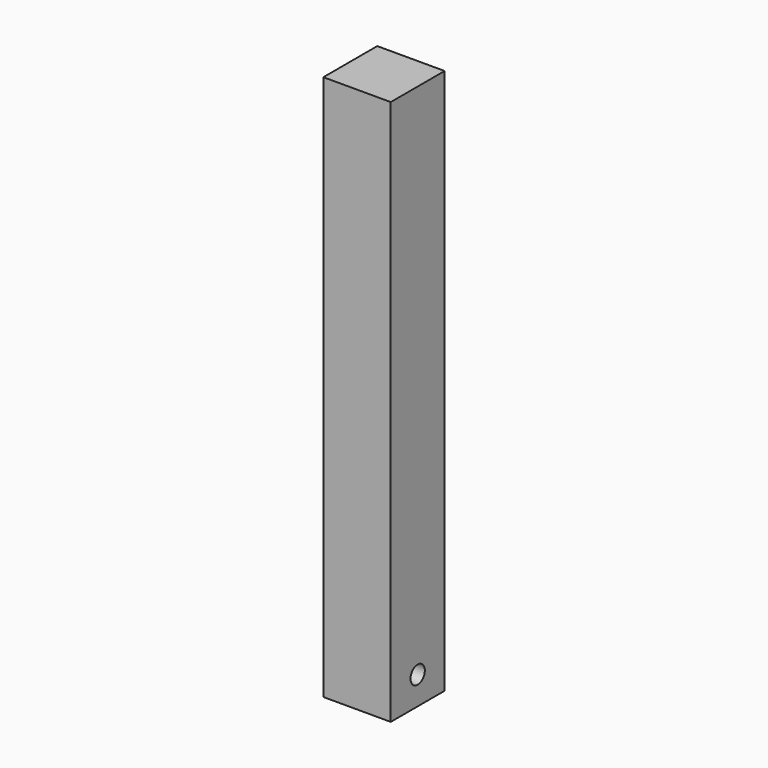
from build123d import *

# Parameters (mm, degrees)
F0_W     = 20
F0_H     = 20
F1_DEPTH = 162
F3_R     = 2.65
F4_DEPTH = 20.001


with BuildPart() as f1:
    # F0 (on Top) → F1 (new body)
    with BuildSketch(Plane.XY):
        Rectangle(F0_W, F0_H)
    extrude(amount=F1_DEPTH)

    # F3 (on face) → F4 (cut, through all)
    with BuildSketch(Plane(origin=(-10, 0, 0), x_dir=(0, -1, 0), z_dir=(-1, 0, 0))):
        with Locations((0, 8.3)):
            Circle(F3_R)
    extrude(amount=-F4_DEPTH, mode=Mode.SUBTRACT)


solid = f1.part
